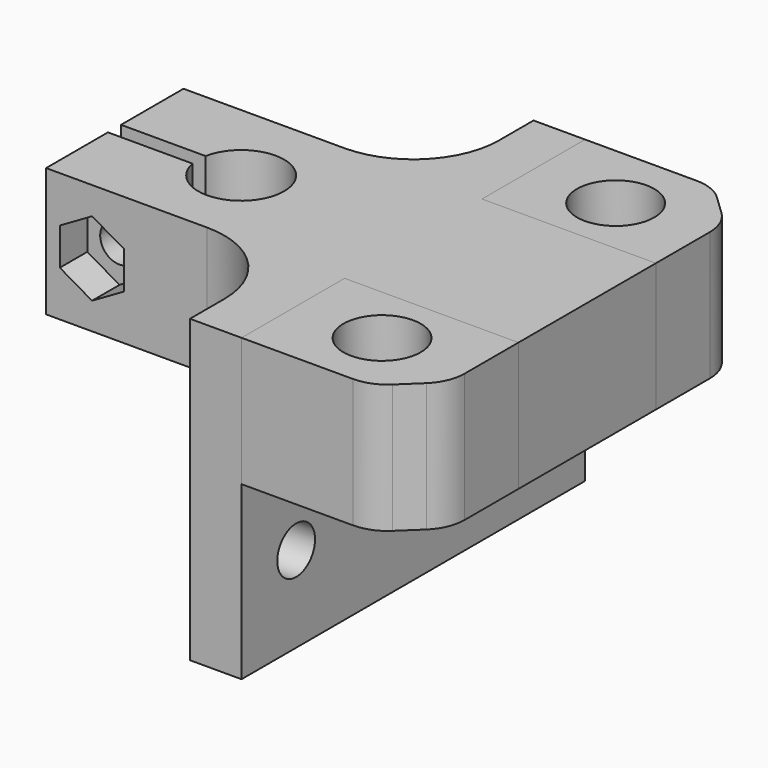
from build123d import *

# Parameters (mm, degrees)
F1_DEPTH  = 15
F2_W      = 6
F2_H      = 15
F3_DEPTH  = 15
F4_W      = 6
F4_H      = 15
F5_DEPTH  = 15
F6_W      = 6
F6_H      = 50
F7_DEPTH  = 20
F8_R      = 2.75
F9_DEPTH  = 10
F11_DEPTH = 15
F12_R     = 10
F13_R     = 5
F13_2_R   = 5
F14_R     = 2.25
F15_DEPTH = 25
F16_R     = 2.75
F17_DEPTH = 20
F16_R_2   = 4.5
F18_DEPTH = 5
F19_R     = 2.75
F20_DEPTH = 20
F19_R_2   = 4.5
F21_DEPTH = 5
F22_DEPTH = 4


with BuildPart() as f1:
    # F0 (on Top) → F1 (new body)
    with BuildSketch(Plane.XY):
        with BuildLine():
            ThreePointArc((-4.9084590781, 0.9523809524), (5, 0), (-4.9084590781, -0.9523809524))
            Line((-4.9084590781, -0.9523809524), (-14.7545770461, -0.9523809524))
            Line((-14.7545770461, -0.9523809524), (-14.7545770461, -9.9523809524))
            Line((-14.7545770461, -9.9523809524), (40.2454229539, -9.9523809524))
            Line((40.2454229539, -9.9523809524), (40.2454229539, 10.0476190476))
            Line((40.2454229539, 10.0476190476), (-14.7545770461, 10.0476190476))
            Line((-14.7545770461, 10.0476190476), (-14.7545770461, 0.9523809524))
            Line((-14.7545770461, 0.9523809524), (-4.9084590781, 0.9523809524))
        make_face()
    extrude(amount=F1_DEPTH)

    # F2 (on face) → F3 (join)
    with BuildSketch(Plane.XZ.offset(9.9523809524)):
        with Locations((17, 7.5)):
            Rectangle(F2_W, F2_H)
    extrude(amount=F3_DEPTH)

    # F4 (on face) → F5 (join)
    with BuildSketch(Plane(origin=(0, 10.0476190476, 0), x_dir=(-1, 0, 0), z_dir=(0, 1, 0))):
        with Locations((-17, 7.5)):
            Rectangle(F4_W, F4_H)
    extrude(amount=F5_DEPTH)

    # F6 (on face) → F7 (join)
    with BuildSketch(Plane(origin=(0, 0, 0), x_dir=(1, 0, 0), z_dir=(0, 0, -1))):
        with Locations((17, -0.0476190476)):
            Rectangle(F6_W, F6_H)
    extrude(amount=F7_DEPTH)

    # F8 (on face) → F9 (cut)
    with BuildSketch(Plane(origin=(14, 0, 0), x_dir=(0, -1, 0), z_dir=(-1, 0, 0))):
        with Locations((-17, -10)):
            Circle(F8_R)
        with Locations((17, -10)):
            Circle(F8_R)
    extrude(amount=-F9_DEPTH, mode=Mode.SUBTRACT)

    # F12
    f12_edges = [f1.edges().sort_by_distance(p)[0] for p in [
        (14, -9.952381, 7.5),
        (14, 10.047619, 7.5),
    ]]
    fillet(f12_edges, radius=F12_R)

    # F14 (on face) → F15 (cut)
    with BuildSketch(Plane.XZ.offset(9.9523809524)):
        with Locations((-9.4037707895, 7.4706980959)):
            Circle(F14_R)
    extrude(amount=-F15_DEPTH, mode=Mode.SUBTRACT)

    # F14 (on face) → F22 (cut)
    with BuildSketch(Plane.XZ.offset(9.9523809524)):
        Polygon((-5.6537707895, 5.3056345864), (-5.6537707895, 9.6357616053), (-9.4037707895, 11.8008251148), (-13.1537707895, 9.6357616053), (-13.1537707895, 5.3056345864), (-9.4037707895, 3.1405710769), align=None)
        with Locations((-9.4037707895, 7.4706980959)):
            Circle(F14_R, mode=Mode.SUBTRACT)
    extrude(amount=-F22_DEPTH, mode=Mode.SUBTRACT)


with BuildPart() as f11:
    # F10 (on face) → F11 (new body)
    with BuildSketch(Plane.XY.offset(15)):
        Polygon((20, 25.0476190476), (20, 10.0476190476), (40.2454229539, 10.0476190476), (40.2454229539, 20.0476190476), (35, 25.0476190476), align=None)
    extrude(amount=-F11_DEPTH)

    # F13#2
    f13_2_edges = [f11.edges().sort_by_distance(p)[0] for p in [
        (40.245423, 20.047619, 7.5),
        (35, 25.047619, 7.5),
    ]]
    fillet(f13_2_edges, radius=F13_2_R)

    # F16 (on face) → F17 (cut)
    with BuildSketch(Plane.XY.offset(15)):
        with Locations((30, 17)):
            Circle(F16_R)
    extrude(amount=-F17_DEPTH, mode=Mode.SUBTRACT)

    # F16 (on face) → F18 (cut)
    with BuildSketch(Plane.XY.offset(15)):
        with Locations((30, 17)):
            Circle(F16_R_2)
        with Locations((30, 17)):
            Circle(F16_R, mode=Mode.SUBTRACT)
    extrude(amount=-F18_DEPTH, mode=Mode.SUBTRACT)


with BuildPart() as f11b:
    # F10 (on face) → F11, piece 2 (new body)
    with BuildSketch(Plane.XY.offset(15)):
        Polygon((40.2454229539, -19.9523809524), (40.2454229539, -9.9523809524), (20, -9.9523809524), (20, -24.9523809524), (35, -24.9523809524), align=None)
    extrude(amount=-F11_DEPTH)

    # F13
    f13_edges = [f11b.edges().sort_by_distance(p)[0] for p in [
        (35, -24.952381, 7.5),
        (40.245423, -19.952381, 7.5),
    ]]
    fillet(f13_edges, radius=F13_R)

    # F19 (on face) → F20 (cut)
    with BuildSketch(Plane.XY.offset(15)):
        with Locations((30, -17)):
            Circle(F19_R)
    extrude(amount=-F20_DEPTH, mode=Mode.SUBTRACT)

    # F19 (on face) → F21 (cut)
    with BuildSketch(Plane.XY.offset(15)):
        with Locations((30, -17)):
            Circle(F19_R_2)
        with Locations((30, -17)):
            Circle(F19_R, mode=Mode.SUBTRACT)
    extrude(amount=-F21_DEPTH, mode=Mode.SUBTRACT)


solid = Compound([f1.part, f11.part, f11b.part])
